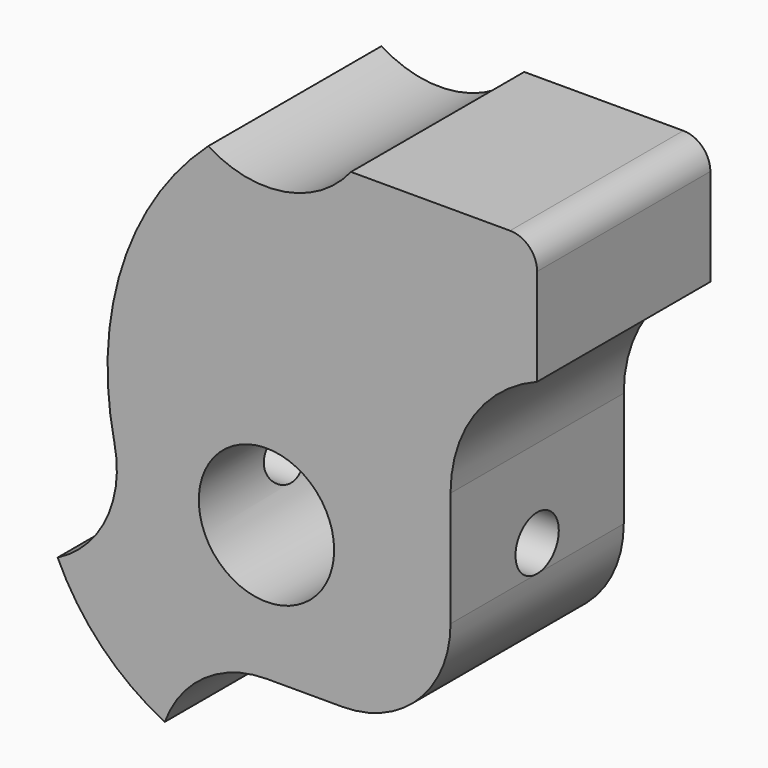
from build123d import *

# Parameters (mm, degrees)
F0_R     = 2.5
F1_DEPTH = 4
F2_R     = 1
F3_DEPTH = 12.5


with BuildPart() as f1:
    # F0 (on Front) → F1 (new body, symmetric)
    with BuildSketch(Plane.XZ):
        with BuildLine():
            ThreePointArc((-3.756245, -7.625), (-2.291288, -5.721281), (0, -5))
            Line((0, -5), (2.8, -5))
            ThreePointArc((2.8, -5), (5.628427, -3.828427), (6.8, -1))
            Line((6.8, -1), (6.8, 3.246244))
            ThreePointArc((6.8, 3.246244), (7.676894, 6.074671), (10, 7.911006))
            Line((10, 7.911006), (10, 11.5))
            ThreePointArc((10, 11.5), (9.707107, 12.207107), (9, 12.5))
            Line((9, 12.5), (3.122499, 12.5))
            ThreePointArc((3.122499, 12.5), (0.653982, 11.053824), (-2.149087, 11.626363))
            ThreePointArc((-2.149087, 11.626363), (-5.328131, 6.699937), (-5.617053, 0.843955))
            ThreePointArc((-5.617053, 0.843955), (-5.915067, -1.718688), (-7.715637, -3.566362))
            ThreePointArc((-7.715637, -3.566362), (-6.084337, -5.935558), (-3.756245, -7.625))
        make_face()
        Circle(F0_R, mode=Mode.SUBTRACT)
    extrude(amount=F1_DEPTH, both=True)

    # F2 (on Right) → F3 (cut, symmetric)
    with BuildSketch(Plane.YZ):
        Circle(F2_R)
    extrude(amount=F3_DEPTH, both=True, mode=Mode.SUBTRACT)


solid = f1.part
